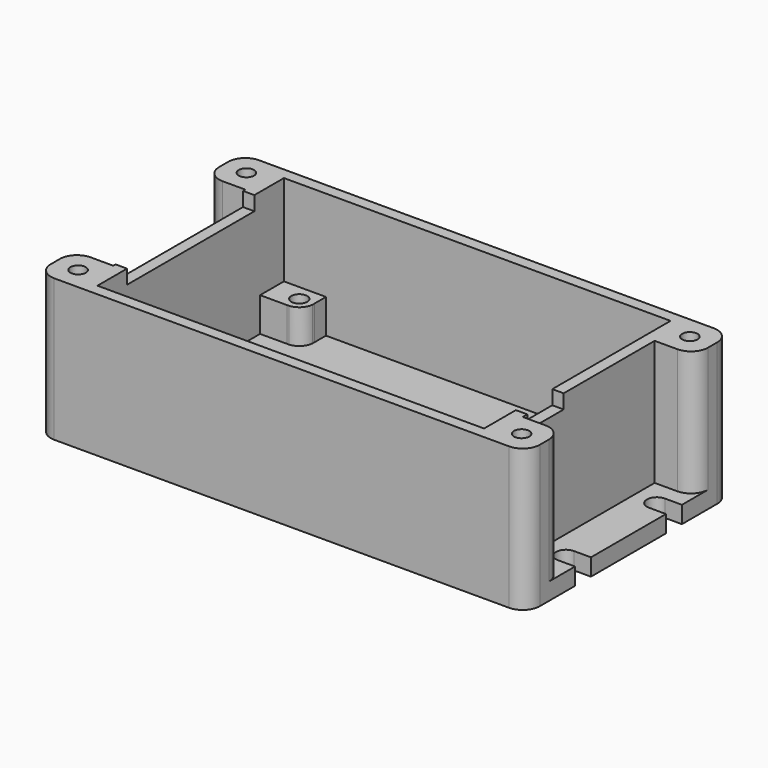
from build123d import *

# Parameters (mm, degrees)
F0_W      = 86
F0_H      = 45
F1_DEPTH  = 3
F2_R      = 1.35
F2_W      = 68
F2_H      = 41
F3_DEPTH  = 22
F4_R      = 1.4
F5_DEPTH  = 6
F7_DEPTH  = 3.001
F8_R      = 3
F9_W      = 2
F9_H      = 28
F9_H_2    = 8
F10_DEPTH = 2.5


with BuildPart() as f1:
    # F0 (on Top) → F1 (new body)
    with BuildSketch(Plane.XY):
        Rectangle(F0_W, F0_H)
    extrude(amount=F1_DEPTH)

    # F2 (on face) → F3 (join)
    with BuildSketch(Plane.XY.offset(3)):
        Polygon((43, 22.5), (-43, 22.5), (-43, 14.5), (-36, 14.5), (-36, -14.5), (-43, -14.5), (-43, -22.5), (43, -22.5), (43, -14.5), (36, -14.5), (36, 14.5), (43, 14.5), align=None)
        with Locations((-39, -18.5)):
            Circle(F2_R, mode=Mode.SUBTRACT)
        with Locations((39, -18.5)):
            Circle(F2_R, mode=Mode.SUBTRACT)
        with Locations((-39, 18.5)):
            Circle(F2_R, mode=Mode.SUBTRACT)
        Rectangle(F2_W, F2_H, mode=Mode.SUBTRACT)
        with Locations((39, 18.5)):
            Circle(F2_R, mode=Mode.SUBTRACT)
    extrude(amount=F3_DEPTH)

    # F4 (on face) → F5 (join)
    with BuildSketch(Plane.XY.offset(3)):
        with BuildLine():
            Line((-28.9413119942, 15.2550414599), (-29.2586880058, 15.2550414599))
            ThreePointArc((-29.2586880058, 15.2550414599), (-29.1, 15.25), (-28.9413119942, 15.2550414599))
        make_face()
        with BuildLine():
            Line((-34, 15.2550414599), (-29.2586880058, 15.2550414599))
            Line((-29.2586880058, 15.2550414599), (-28.9413119942, 15.2550414599))
            ThreePointArc((-28.9413119942, 15.2550414599), (-27.3470376902, 15.9675513639), (-26.6080353575, 17.5497196457))
            Line((-26.6080353575, 17.5497196457), (-26.6080353575, 17.9502803543))
            Line((-26.6080353575, 17.9502803543), (-26.6080353575, 20.5))
            Line((-26.6080353575, 20.5), (-34, 20.5))
            Line((-34, 20.5), (-34, 15.2550414599))
        make_face()
        with Locations((-29.1, 17.75)):
            Circle(F4_R, mode=Mode.SUBTRACT)
        with BuildLine():
            Line((-26.6080353575, 17.9502803543), (-26.6080353575, 17.5497196457))
            ThreePointArc((-26.6080353575, 17.5497196457), (-26.6, 17.75), (-26.6080353575, 17.9502803543))
        make_face()
        with BuildLine():
            Line((-26.5361216883, -20.5), (-26.6006603156, -17.6925444326))
            ThreePointArc((-26.6006603156, -17.6925444326), (-27.2968273142, -16.018362548), (-28.9414728026, -15.2550312371))
            Line((-28.9414728026, -15.2550312371), (-29.2585271974, -15.2550312371))
            Line((-29.2585271974, -15.2550312371), (-34, -15.2550312371))
            Line((-34, -15.2550312371), (-34, -20.5))
            Line((-34, -20.5), (-26.5361216883, -20.5))
        make_face()
        with Locations((-29.1, -17.75)):
            Circle(F4_R, mode=Mode.SUBTRACT)
        with BuildLine():
            Line((-29.2585271974, -15.2550312371), (-28.9414728026, -15.2550312371))
            ThreePointArc((-28.9414728026, -15.2550312371), (-29.1, -15.25), (-29.2585271974, -15.2550312371))
        make_face()
        with BuildLine():
            Line((26.6080353575, 17.5497196457), (26.6080353575, 17.9502803543))
            ThreePointArc((26.6080353575, 17.9502803543), (26.6, 17.75), (26.6080353575, 17.5497196457))
        make_face()
        with BuildLine():
            Line((26.6080353575, 20.5), (26.6080353575, 17.9502803543))
            Line((26.6080353575, 17.9502803543), (26.6080353575, 17.5497196457))
            ThreePointArc((26.6080353575, 17.5497196457), (27.4045208473, 15.9127873169), (29.1, 15.25))
            ThreePointArc((29.1, 15.25), (29.1012864239, 15.250000331), (29.1025728475, 15.2500013239))
            Line((29.1025728475, 15.2500013239), (34, 15.2550414599))
            Line((34, 15.2550414599), (34, 20.5))
            Line((34, 20.5), (26.6080353575, 20.5))
        make_face()
        with Locations((29.1, 17.75)):
            Circle(F4_R, mode=Mode.SUBTRACT)
        with BuildLine():
            Line((28.9479452437, -15.2546284142), (29.2524526886, -15.254652694))
            ThreePointArc((29.2524526886, -15.254652694), (29.1001993362, -15.2500000079), (28.9479452437, -15.2546284142))
        make_face()
        with BuildLine():
            Line((34, -15.2550312371), (29.2524526886, -15.254652694))
            Line((29.2524526886, -15.254652694), (28.9479452437, -15.2546284142))
            ThreePointArc((28.9479452437, -15.2546284142), (27.236154388, -16.0838428842), (26.6032541645, -17.8775156186))
            Line((26.6032541645, -17.8775156186), (26.7371915935, -20.5))
            Line((26.7371915935, -20.5), (34, -20.5))
            Line((34, -20.5), (34, -15.2550312371))
        make_face()
        with Locations((29.1, -17.75)):
            Circle(F4_R, mode=Mode.SUBTRACT)
    extrude(amount=F5_DEPTH)

    # F6 (on face) → F7 (cut, through all)
    with BuildSketch(Plane.XY.offset(3)):
        with BuildLine():
            Line((-43, 8.25), (-40, 8.25))
            ThreePointArc((-40, 8.25), (-38.25, 10), (-40, 11.75))
            Line((-40, 11.75), (-43, 11.75))
            Line((-43, 11.75), (-43, 8.25))
        make_face()
        with BuildLine():
            Line((-43, -11.75), (-40, -11.75))
            ThreePointArc((-40, -11.75), (-38.25, -10), (-40, -8.25))
            Line((-40, -8.25), (-43, -8.25))
            Line((-43, -8.25), (-43, -11.75))
        make_face()
        with BuildLine():
            ThreePointArc((40, 11.75), (38.25, 10), (40, 8.25))
            Line((40, 8.25), (43, 8.25))
            Line((43, 8.25), (43, 11.75))
            Line((43, 11.75), (40, 11.75))
        make_face()
        with BuildLine():
            ThreePointArc((40, -8.25), (38.25, -10), (40, -11.75))
            Line((40, -11.75), (43, -11.75))
            Line((43, -11.75), (43, -8.25))
            Line((43, -8.25), (40, -8.25))
        make_face()
    extrude(amount=-F7_DEPTH, mode=Mode.SUBTRACT)

    # F8
    f8_edges = [f1.edges().sort_by_distance(p)[0] for p in [
        (-43, -22.5, 12.5),
        (-43, 14.5, 14),
        (-43, 22.5, 12.5),
        (-43, -14.5, 14),
        (43, -22.5, 12.5),
        (43, -14.5, 14),
        (43, 14.5, 14),
        (43, 22.5, 12.5),
    ]]
    fillet(f8_edges, radius=F8_R)

    # F9 (on face) → F10 (cut)
    with BuildSketch(Plane.XY.offset(25)):
        with Locations((-35, 0)):
            Rectangle(F9_W, F9_H)
        with Locations((35, -9.5)):
            Rectangle(F9_W, F9_H_2)
    extrude(amount=-F10_DEPTH, mode=Mode.SUBTRACT)


solid = f1.part
